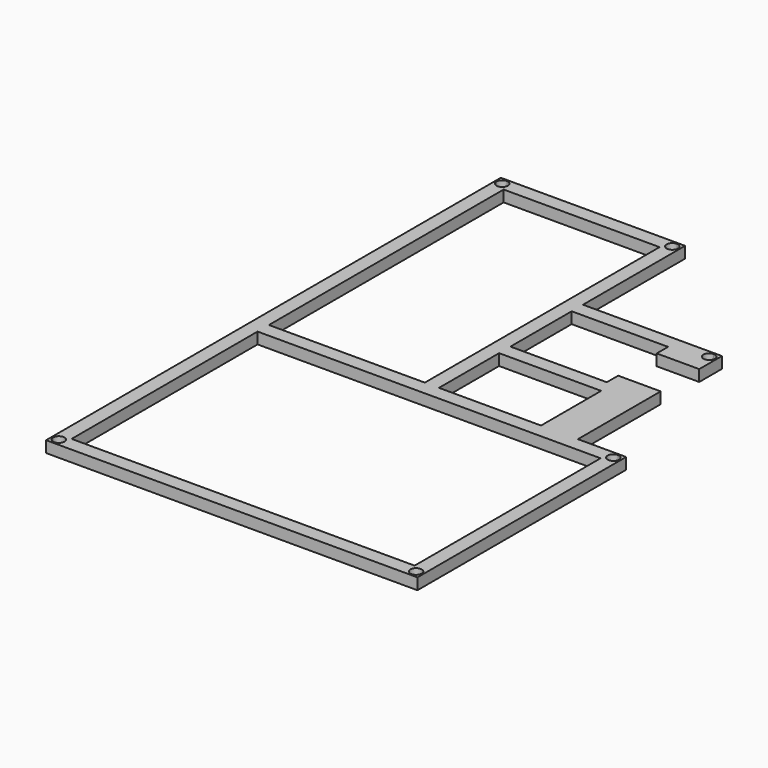
from build123d import *

# Parameters (mm, degrees)
F0_W     = 5
F0_H     = 5
F1_DEPTH = 4


with BuildPart() as f1:
    # F0 (on Top) → F1 (new body)
    with BuildSketch(Plane.XY):
        with BuildLine():
            Line((82.7990943193, -150.3260023594), (82.7990943193, -150.8260023594))
            Line((82.7990943193, -150.8260023594), (85.2990943193, -150.8260023594))
            Line((85.2990943193, -150.8260023594), (85.2990943193, -148.3260023594))
            Line((85.2990943193, -148.3260023594), (84.7990943193, -148.3260023594))
            ThreePointArc((84.7990943193, -148.3260023594), (84.2133078817, -149.7402159218), (82.7990943193, -150.3260023594))
        make_face()
        with BuildLine():
            Line((-45.2009056807, -148.3260023594), (-45.7009056807, -148.3260023594))
            Line((-45.7009056807, -148.3260023594), (-45.7009056807, -150.8260023594))
            Line((-45.7009056807, -150.8260023594), (-43.2009056807, -150.8260023594))
            Line((-43.2009056807, -150.8260023594), (-43.2009056807, -150.3260023594))
            ThreePointArc((-43.2009056807, -150.3260023594), (-44.615119243, -149.7402159218), (-45.2009056807, -148.3260023594))
        make_face()
        with BuildLine():
            Line((-43.2009056807, 49.1739976406), (-43.2009056807, 49.6739976406))
            Line((-43.2009056807, 49.6739976406), (-45.7009056807, 49.6739976406))
            Line((-45.7009056807, 49.6739976406), (-45.7009056807, 47.1739976406))
            Line((-45.7009056807, 47.1739976406), (-45.2009056807, 47.1739976406))
            ThreePointArc((-45.2009056807, 47.1739976406), (-44.615119243, 48.588211203), (-43.2009056807, 49.1739976406))
        make_face()
        with BuildLine():
            Line((85.2990943193, -61.3260023594), (85.2990943193, -58.8260023594))
            Line((85.2990943193, -58.8260023594), (82.7990943193, -58.8260023594))
            Line((82.7990943193, -58.8260023594), (82.7990943193, -59.3260023594))
            ThreePointArc((82.7990943193, -59.3260023594), (84.2133078817, -59.911788797), (84.7990943193, -61.3260023594))
            Line((84.7990943193, -61.3260023594), (85.2990943193, -61.3260023594))
        make_face()
        with BuildLine():
            Line((19.2990943193, 49.6739976406), (16.7990943193, 49.6739976406))
            Line((16.7990943193, 49.6739976406), (16.7990943193, 49.1739976406))
            ThreePointArc((16.7990943193, 49.1739976406), (18.2133078817, 48.588211203), (18.7990943193, 47.1739976406))
            Line((18.7990943193, 47.1739976406), (19.2990943193, 47.1739976406))
            Line((19.2990943193, 47.1739976406), (19.2990943193, 49.6739976406))
        make_face()
        with BuildLine():
            Line((85.2990943193, -63.8260023594), (85.2990943193, -61.3260023594))
            Line((85.2990943193, -61.3260023594), (84.7990943193, -61.3260023594))
            ThreePointArc((84.7990943193, -61.3260023594), (81.384880757, -62.7402159218), (82.7990943193, -59.3260023594))
            Line((82.7990943193, -59.3260023594), (82.7990943193, -58.8260023594))
            Line((82.7990943193, -58.8260023594), (80.2990943193, -58.8260023594))
            Line((80.2990943193, -58.8260023594), (80.2990943193, -63.8260023594))
            Line((80.2990943193, -63.8260023594), (85.2990943193, -63.8260023594))
        make_face()
        with BuildLine():
            Line((14.2990943193, 49.6739976406), (14.2990943193, 44.6739976406))
            Line((14.2990943193, 44.6739976406), (16.7990943193, 44.6739976406))
            Line((16.7990943193, 44.6739976406), (19.2990943193, 44.6739976406))
            Line((19.2990943193, 44.6739976406), (19.2990943193, 47.1739976406))
            Line((19.2990943193, 47.1739976406), (18.7990943193, 47.1739976406))
            ThreePointArc((18.7990943193, 47.1739976406), (15.384880757, 45.7597840782), (16.7990943193, 49.1739976406))
            Line((16.7990943193, 49.1739976406), (16.7990943193, 49.6739976406))
            Line((16.7990943193, 49.6739976406), (14.2990943193, 49.6739976406))
        make_face()
        with BuildLine():
            Line((-37.7009056807, -58.8260023594), (-40.7009056807, -58.8260023594))
            Line((-40.7009056807, -58.8260023594), (-40.7009056807, -52.8260023594))
            Line((-40.7009056807, -52.8260023594), (-40.7009056807, 28.4739976406))
            Line((-40.7009056807, 28.4739976406), (-40.7009056807, 44.6739976406))
            Line((-40.7009056807, 44.6739976406), (14.2990943193, 44.6739976406))
            Line((14.2990943193, 44.6739976406), (14.2990943193, 49.6739976406))
            Line((14.2990943193, 49.6739976406), (-43.2009056807, 49.6739976406))
            Line((-43.2009056807, 49.6739976406), (-43.2009056807, 49.1739976406))
            ThreePointArc((-43.2009056807, 49.1739976406), (-41.7866921183, 48.588211203), (-41.2009056807, 47.1739976406))
            ThreePointArc((-41.2009056807, 47.1739976406), (-43.2009056807, 45.1739976406), (-45.2009056807, 47.1739976406))
            Line((-45.2009056807, 47.1739976406), (-45.7009056807, 47.1739976406))
            Line((-45.7009056807, 47.1739976406), (-45.7009056807, -148.3260023594))
            Line((-45.7009056807, -148.3260023594), (-45.2009056807, -148.3260023594))
            ThreePointArc((-45.2009056807, -148.3260023594), (-43.2009056807, -146.3260023594), (-41.2009056807, -148.3260023594))
            ThreePointArc((-41.2009056807, -148.3260023594), (-41.7866921183, -149.7402159218), (-43.2009056807, -150.3260023594))
            Line((-43.2009056807, -150.3260023594), (-43.2009056807, -150.8260023594))
            Line((-43.2009056807, -150.8260023594), (82.7990943193, -150.8260023594))
            Line((82.7990943193, -150.8260023594), (82.7990943193, -150.3260023594))
            ThreePointArc((82.7990943193, -150.3260023594), (81.384880757, -146.911788797), (84.7990943193, -148.3260023594))
            Line((84.7990943193, -148.3260023594), (85.2990943193, -148.3260023594))
            Line((85.2990943193, -148.3260023594), (85.2990943193, -63.8260023594))
            Line((85.2990943193, -63.8260023594), (80.2990943193, -63.8260023594))
            Line((80.2990943193, -63.8260023594), (80.2990943193, -58.8260023594))
            Line((80.2990943193, -58.8260023594), (68.2990943193, -58.8260023594))
            Line((68.2990943193, -58.8260023594), (68.2990943193, -22.3260023594))
            Line((68.2990943193, -22.3260023594), (63.2990943193, -22.3260023594))
            Line((63.2990943193, -22.3260023594), (53.2990943193, -22.3260023594))
            Line((53.2990943193, -22.3260023594), (53.2990943193, -25.3760023594))
            Line((53.2990943193, -25.3760023594), (53.2990943193, -27.3260023594))
            Line((53.2990943193, -27.3260023594), (51.3490943193, -27.3260023594))
            Line((51.3490943193, -27.3260023594), (28.5490943193, -27.3260023594))
            Line((28.5490943193, -27.3260023594), (19.2990943193, -27.3260023594))
            Line((19.2990943193, -27.3260023594), (19.2990943193, -25.3760023594))
            Line((19.2990943193, -25.3760023594), (19.2990943193, -2.2760023594))
            Line((19.2990943193, -2.2760023594), (19.2990943193, -0.3260023594))
            Line((19.2990943193, -0.3260023594), (14.2990943193, -0.3260023594))
            Line((14.2990943193, -0.3260023594), (14.2990943193, -27.3260023594))
            Line((14.2990943193, -27.3260023594), (14.2990943193, -32.3260023594))
            Line((14.2990943193, -32.3260023594), (14.2990943193, -47.2260023594))
            Line((14.2990943193, -47.2260023594), (14.2990943193, -58.8260023594))
            Line((14.2990943193, -58.8260023594), (11.2990943193, -58.8260023594))
            Line((11.2990943193, -58.8260023594), (-37.7009056807, -58.8260023594))
        make_face()
        Polygon((76.8990943193, -63.8260023594), (80.2990943193, -63.8260023594), (80.2990943193, -67.2260023594), (80.2990943193, -142.4260023594), (80.2990943193, -145.8260023594), (76.8990943193, -145.8260023594), (-37.3009056807, -145.8260023594), (-40.7009056807, -145.8260023594), (-40.7009056807, -142.4260023594), (-40.7009056807, -67.2260023594), (-40.7009056807, -63.8260023594), (-37.3009056807, -63.8260023594), (14.2990943193, -63.8260023594), (19.2990943193, -63.8260023594), align=None, mode=Mode.SUBTRACT)
        Polygon((53.5990943193, -58.8260023594), (19.2990943193, -58.8260023594), (19.2990943193, -32.3260023594), (53.5990943193, -32.3260023594), (55.2990943193, -32.3260023594), (55.2990943193, -34.0260023594), (55.2990943193, -57.1260023594), (55.2990943193, -58.8260023594), align=None, mode=Mode.SUBTRACT)
        with Locations((16.7990943193, 2.1739976406)):
            Rectangle(F0_W, F0_H)
        Polygon((16.7990943193, 44.6739976406), (14.2990943193, 44.6739976406), (14.2990943193, 29.8739976406), (14.2990943193, 4.6739976406), (19.2990943193, 4.6739976406), (19.2990943193, 44.6739976406), align=None)
        with BuildLine():
            Line((65.7990943193, 4.6739976406), (19.2990943193, 4.6739976406))
            Line((19.2990943193, 4.6739976406), (19.2990943193, -0.3260023594))
            Line((19.2990943193, -0.3260023594), (28.5490943193, -0.3260023594))
            Line((28.5490943193, -0.3260023594), (51.3490943193, -0.3260023594))
            Line((51.3490943193, -0.3260023594), (53.2990943193, -0.3260023594))
            Line((53.2990943193, -0.3260023594), (53.2990943193, -2.2760023594))
            Line((53.2990943193, -2.2760023594), (53.2990943193, -5.3260023594))
            Line((53.2990943193, -5.3260023594), (63.2990943193, -5.3260023594))
            Line((63.2990943193, -5.3260023594), (68.2990943193, -5.3260023594))
            Line((68.2990943193, -5.3260023594), (68.2990943193, 2.1739976406))
            Line((68.2990943193, 2.1739976406), (67.7990943193, 2.1739976406))
            ThreePointArc((67.7990943193, 2.1739976406), (64.384880757, 0.7597840782), (65.7990943193, 4.1739976406))
            Line((65.7990943193, 4.1739976406), (65.7990943193, 4.6739976406))
        make_face()
        with BuildLine():
            Line((68.2990943193, 4.6739976406), (65.7990943193, 4.6739976406))
            Line((65.7990943193, 4.6739976406), (65.7990943193, 4.1739976406))
            ThreePointArc((65.7990943193, 4.1739976406), (67.2133078817, 3.588211203), (67.7990943193, 2.1739976406))
            Line((67.7990943193, 2.1739976406), (68.2990943193, 2.1739976406))
            Line((68.2990943193, 2.1739976406), (68.2990943193, 4.6739976406))
        make_face()
    extrude(amount=-F1_DEPTH)


solid = f1.part
